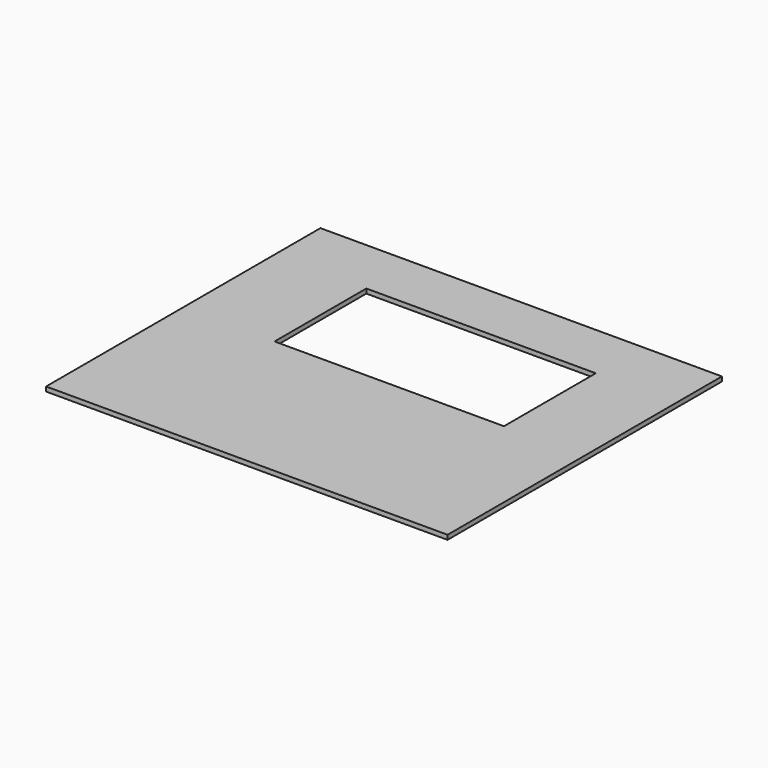
from build123d import *

# Parameters (mm, degrees)
SKETCH_W      = 533.4
SKETCH_H      = 455.6252
SKETCH_W_2    = 304.8
SKETCH_H_2    = 152.4
EXTRUDE_DEPTH = 5.9944


with BuildPart() as part:
    # Sketch → Extrude (new body)
    with BuildSketch(Plane.XY):
        with Locations((-17.495742, -120.268996)):
            Rectangle(SKETCH_W, SKETCH_H)
        with Locations((-9.875742, -44.856396)):
            Rectangle(SKETCH_W_2, SKETCH_H_2, mode=Mode.SUBTRACT)
    extrude(amount=EXTRUDE_DEPTH)


solid = part.part
